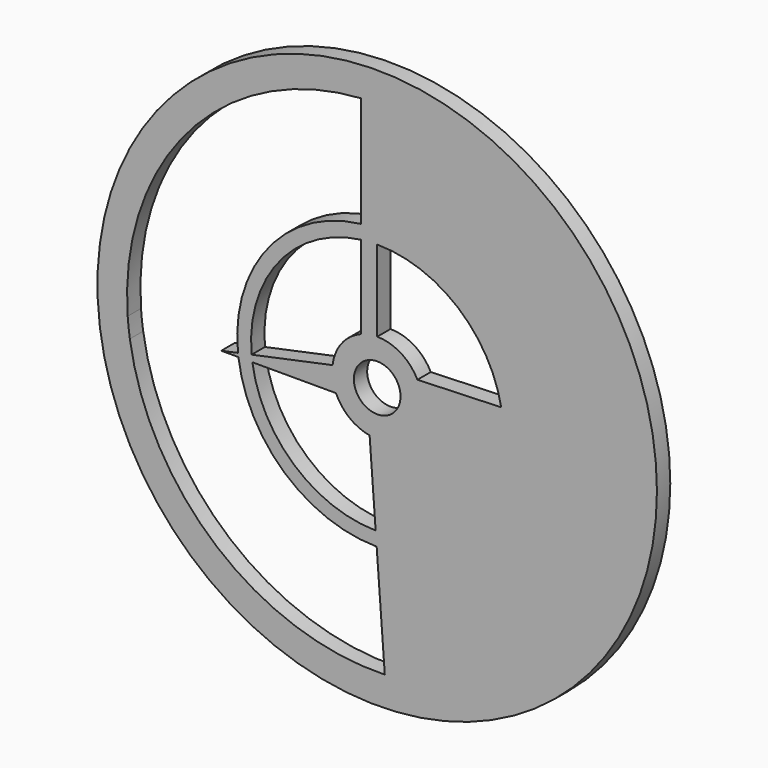
from build123d import *

# Parameters (mm, degrees)
F0_R     = 63.946243
F0_R_2   = 5.334163
F1_DEPTH = 3.81


with BuildPart() as f1:
    # F0 (on Front) → F1 (new body)
    with BuildSketch(Plane.XZ):
        Circle(F0_R)
        with BuildLine():
            ThreePointArc((-0.355494, -28.829536), (-19.004092, -21.682089), (-28.534216, -4.131221))
            Line((-28.534216, -4.131221), (-9.421132, -4.131221))
            ThreePointArc((-9.421132, -4.131221), (-6.335532, -8.104675), (-1.734714, -10.139797))
            Line((-1.734714, -10.139797), (-0.355494, -28.829536))
        make_face(mode=Mode.SUBTRACT)
        with BuildLine():
            ThreePointArc((-57.030724, -4.131221), (-43.12199, 37.550825), (-3.747552, 57.05722))
            Line((-3.747552, 57.05722), (-3.747552, 31.774284))
            ThreePointArc((-3.747552, 31.774284), (-24.98442, 19.985696), (-31.821637, -3.321552))
            Line((-31.821637, -3.321552), (-35.653092, -4.131221))
            Line((-35.653092, -4.131221), (-31.726681, -4.131221))
            ThreePointArc((-31.726681, -4.131221), (-21.158247, -23.999539), (-0.121949, -31.994287))
            Line((-0.121949, -31.994287), (1.734714, -57.153839))
            ThreePointArc((1.734714, -57.153839), (-36.627394, -43.909048), (-56.53812, -8.544678))
            ThreePointArc((-56.53812, -8.544678), (-56.827284, -6.342733), (-57.030724, -4.131221))
        make_face(mode=Mode.SUBTRACT)
        with BuildLine():
            Line((-10.211481, 1.24514), (-28.70842, -2.663662))
            ThreePointArc((-28.70842, -2.663662), (-22.527775, 17.99355), (-3.747552, 28.587136))
            Line((-3.747552, 28.587136), (-3.747552, 9.580218))
            ThreePointArc((-3.747552, 9.580218), (-8.129086, 6.30418), (-10.211481, 1.24514))
        make_face(mode=Mode.SUBTRACT)
        Circle(F0_R_2, mode=Mode.SUBTRACT)
        with BuildLine():
            Line((0, 10.287114), (0, 28.831727))
            ThreePointArc((0, 28.831727), (18.420957, 22.179649), (28.341719, 5.292961))
            Line((28.341719, 5.292961), (9.193887, 4.614885))
            ThreePointArc((9.193887, 4.614885), (5.401429, 8.754958), (0, 10.287114))
        make_face(mode=Mode.SUBTRACT)
        with BuildLine():
            Line((0, 31.99452), (0, 57.180158))
            ThreePointArc((0, 57.180158), (38.724459, 42.071211), (56.984273, 4.728966))
            Line((56.984273, 4.728966), (30.757176, 8.811666))
            ThreePointArc((30.757176, 8.811666), (19.257781, 25.5497), (0, 31.99452))
        make_face(mode=Mode.SUBTRACT)
        with BuildLine():
            ThreePointArc((56.984273, 4.728966), (38.724459, 42.071211), (0, 57.180158))
            Line((0, 57.180158), (0, 31.99452))
            ThreePointArc((0, 31.99452), (19.257781, 25.5497), (30.757176, 8.811666))
            Line((30.757176, 8.811666), (56.984273, 4.728966))
        make_face()
    extrude(amount=F1_DEPTH)


solid = f1.part
